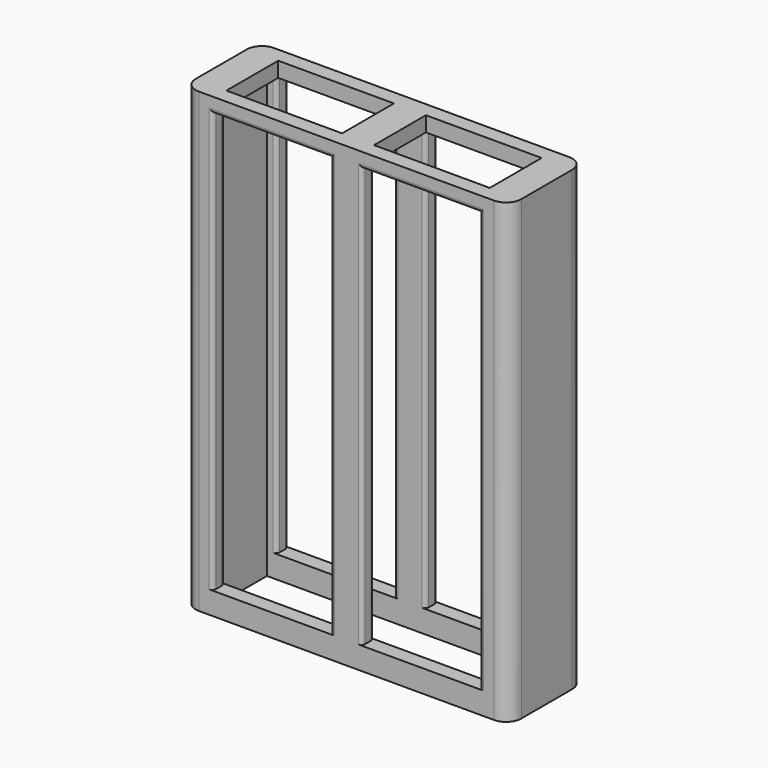
from build123d import *

# Parameters (mm, degrees)
F0_W          = 108.5027605295
F0_H          = 31.3708260655
F1_DEPTH      = 152.4
F2_W          = 95.2637046576
F2_H          = 21.5854328126
F3_DEPTH      = 147.32
F4_R          = 5.08
F5_W          = 39.1854047775
F5_H          = 139.895003289
F6_DEPTH      = 15.6864130328
F6_DEPTH_BACK = 15.6864130328
F7_R          = 1.27
F8_W          = 38.5659714229
F8_H          = 21.5854328126
F9_DEPTH      = 152.401


with BuildPart() as f1:
    # F0 (on Top) → F1 (new body)
    with BuildSketch(Plane.XY):
        Rectangle(F0_W, F0_H)
    extrude(amount=F1_DEPTH)

    # F2 (on Top) → F3 (cut)
    with BuildSketch(Plane.XY):
        Rectangle(F2_W, F2_H)
    extrude(amount=F3_DEPTH, mode=Mode.SUBTRACT)

    # F4
    f4_edges = [f1.edges().sort_by_distance(p)[0] for p in [
        (-54.25138, 15.685413, 76.2),
        (-54.25138, -15.685413, 76.2),
        (54.25138, -15.685413, 76.2),
        (54.25138, 15.685413, 76.2),
    ]]
    fillet(f4_edges, radius=F4_R)

    # F5 (on Front) → F6 (cut, two sides)
    with BuildSketch(Plane.XZ) as f6_sk:
        with Locations((24.835858494, 77.4077717215)):
            Rectangle(F5_W, F5_H)
        with Locations((-24.835858494, 77.4077717215)):
            Rectangle(F5_W, F5_H)
    extrude(amount=-F6_DEPTH, mode=Mode.SUBTRACT)
    extrude(f6_sk.sketch, amount=F6_DEPTH_BACK, mode=Mode.SUBTRACT)

    # F7
    f7_edges = [f1.edges().sort_by_distance(p)[0] for p in [
        (5.243156, -15.685413, 77.407772),
        (5.243156, -10.792716, 77.390135),
        (-5.243156, -15.685413, 77.407772),
        (-5.243156, -10.792716, 77.390135),
        (-5.243156, 10.792716, 77.390135),
        (-5.243156, 15.685413, 77.407772),
        (5.243156, 10.792716, 77.390135),
        (5.243156, 15.685413, 77.407772),
        (44.428561, -15.685413, 77.407772),
        (44.428561, -10.792716, 77.390135),
        (44.428561, 10.792716, 77.390135),
        (44.428561, 15.685413, 77.407772),
        (-44.428561, 10.792716, 77.390135),
        (-44.428561, 15.685413, 77.407772),
        (-44.428561, -10.792716, 77.390135),
        (-44.428561, -15.685413, 77.407772),
        (-24.835858, 15.685413, 147.355273),
        (-24.835858, -15.685413, 147.355273),
        (24.835858, -15.685413, 147.355273),
        (24.835858, 15.685413, 147.355273),
    ]]
    fillet(f7_edges, radius=F7_R)

    # F8 (on Top) → F9 (cut, through all)
    with BuildSketch(Plane.XY):
        with Locations((-24.6073936578, 0)):
            Rectangle(F8_W, F8_H)
        with Locations((24.6073936578, 0)):
            Rectangle(F8_W, F8_H)
    extrude(amount=F9_DEPTH, mode=Mode.SUBTRACT)


solid = f1.part
